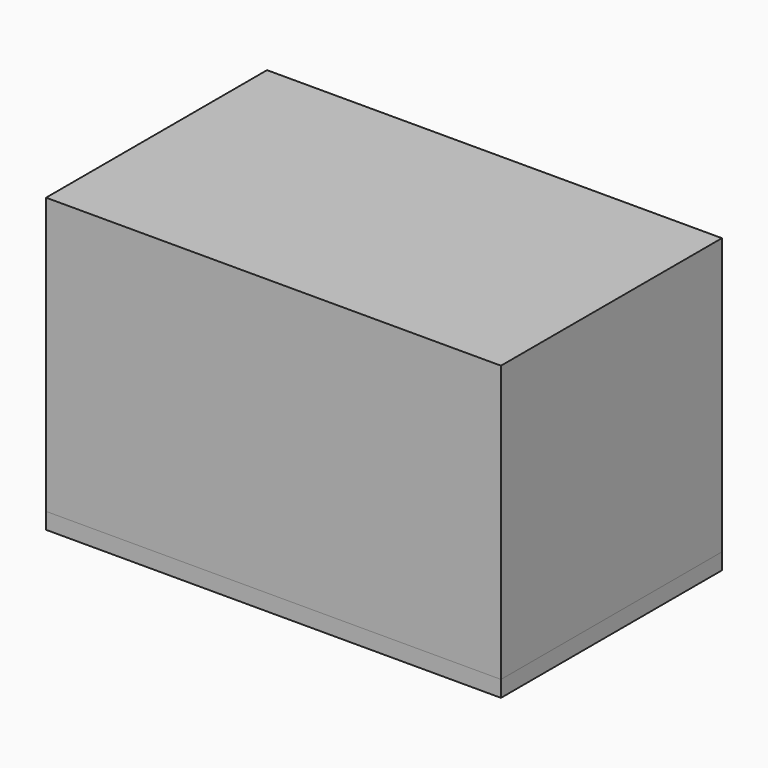
from build123d import *

# Parameters (mm, degrees)
F0_W     = 280
F0_H     = 170
F1_DEPTH = 170
F2_W     = 280
F2_H     = 170
F2_W_2   = 270
F2_H_2   = 160
F3_DEPTH = 10


with BuildPart() as f1:
    # F0 (on Top) → F1 (new body)
    with BuildSketch(Plane.XY):
        Rectangle(F0_W, F0_H)
    extrude(amount=F1_DEPTH)


with BuildPart() as f3:
    # F2 (on face) → F3 (new body)
    with BuildSketch(Plane(origin=(0, 0, 0), x_dir=(1, 0, 0), z_dir=(0, 0, -1))):
        Rectangle(F2_W, F2_H)
        Rectangle(F2_W_2, F2_H_2, mode=Mode.SUBTRACT)
    extrude(amount=F3_DEPTH)


solid = Compound([f1.part, f3.part])
